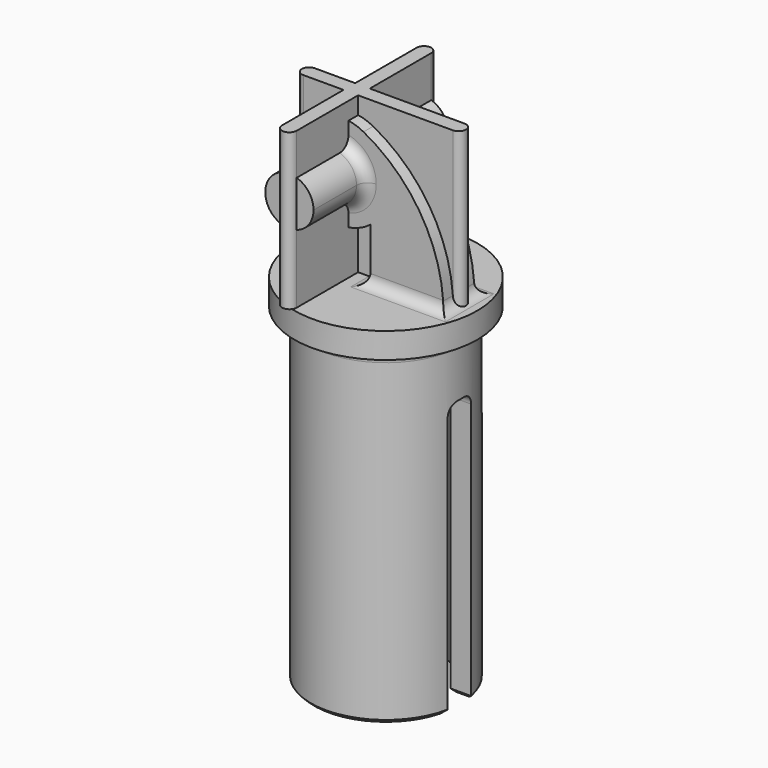
from build123d import *

# Parameters (mm, degrees)
F1_DEPTH  = 2.65
F2_DEPTH  = 11.5
F3_R      = 12.5
F4_DEPTH  = 3.5
F5_R      = 10.25
F5_R_2    = 7.5
F6_DEPTH  = 45
F7_W      = 52.3298196495
F7_H      = 44.3425662816
F8_DEPTH  = 2
F9_R      = 1.5
F13_SIZE  = 0.5
F11_W     = 1
F11_H     = 1
F12_DEPTH = 21.3


with BuildPart() as f1:
    # F0 (on Front) → F1 (new body, symmetric)
    with BuildSketch(Plane.XZ):
        with BuildLine():
            ThreePointArc((2.5, 12.5), (1.8416607228, 9.6495614373), (0, 7.376524617))
            Line((0, 7.376524617), (0, 0))
            Line((0, 0), (10, 0))
            ThreePointArc((10, 0), (7.0548538101, 10.6329122587), (-0.9411764292, 18.2352940956))
            ThreePointArc((-0.9411764292, 18.2352940956), (1.5737040292, 15.8442223901), (2.5, 12.5))
        make_face()
        with BuildLine():
            ThreePointArc((-4, 15.8), (-1.6665476221, 14.8334523779), (-0.7, 12.5))
            Line((-0.7, 12.5), (0, 12.5))
            Line((0, 12.5), (0, 7.376524617))
            ThreePointArc((0, 7.376524617), (1.8416607228, 9.6495614373), (2.5, 12.5))
            ThreePointArc((2.5, 12.5), (1.5737040292, 15.8442223901), (-0.9411764292, 18.2352940956))
            ThreePointArc((-0.9411764292, 18.2352940956), (-2.4235184145, 18.8059262453), (-4, 19))
            Line((-4, 19), (-4, 15.8))
        make_face()
        with BuildLine():
            Line((0, 12.5), (-0.7, 12.5))
            ThreePointArc((-0.7, 12.5), (-1.6665476221, 10.1665476221), (-4, 9.2))
            Line((-4, 9.2), (-4, 6))
            ThreePointArc((-4, 6), (-1.8848865266, 6.3537576525), (0, 7.376524617))
            Line((0, 7.376524617), (0, 12.5))
        make_face()
        with BuildLine():
            ThreePointArc((-4, 9.2), (-7.3, 12.5), (-4, 15.8))
            Line((-4, 15.8), (-4, 19))
            ThreePointArc((-4, 19), (-10.5, 12.5), (-4, 6))
            Line((-4, 6), (-4, 9.2))
        make_face()
    extrude(amount=F1_DEPTH, both=True)

    # F0 (on Front) → F2 (join, symmetric)
    with BuildSketch(Plane.XZ):
        with BuildLine():
            ThreePointArc((-4, 9.2), (-1.6665476221, 10.1665476221), (-0.7, 12.5))
            Line((-0.7, 12.5), (-4, 12.5))
            Line((-4, 12.5), (-4, 9.2))
        make_face()
        with BuildLine():
            Line((-4, 12.5), (-0.7, 12.5))
            ThreePointArc((-0.7, 12.5), (-1.6665476221, 14.8334523779), (-4, 15.8))
            Line((-4, 15.8), (-4, 12.5))
        make_face()
        with BuildLine():
            Line((-4, 12.5), (-4, 15.8))
            ThreePointArc((-4, 15.8), (-7.3, 12.5), (-4, 9.2))
            Line((-4, 9.2), (-4, 12.5))
        make_face()
    extrude(amount=F2_DEPTH, both=True)

    # F3 (on Top) → F4 (join)
    with BuildSketch(Plane.XY):
        Circle(F3_R)
    extrude(amount=-F4_DEPTH)

    # F5 (on face) → F6 (join)
    with BuildSketch(Plane(origin=(0, 0, -3.5), x_dir=(1, 0, 0), z_dir=(0, 0, -1))):
        Circle(F5_R)
        Circle(F5_R_2, mode=Mode.SUBTRACT)
    extrude(amount=F6_DEPTH)

    # F7 (on Front) → F8 (cut, symmetric)
    with BuildSketch(Plane.XZ):
        with Locations((3.1908433884, -33.530684188)):
            Rectangle(F7_W, F7_H)
    extrude(amount=F8_DEPTH, both=True, mode=Mode.SUBTRACT)

    # F9
    f9_edges = [f1.edges().sort_by_distance(p)[0] for p in [
        (5, -2.65, 0),
        (-4, -2.65, 9.2),
        (-4, 2.65, 9.2),
        (0, 0, 0),
        (-10.25, 0, -3.5),
        (5, 2.65, 0),
        (10, 0, 0),
        (-7.5, 0, -3.5),
        (8.6407, 2, -11.359401),
        (-8.6407, 2, -11.359401),
        (8.6407, -2, -11.359401),
        (-8.6407, -2, -11.359401),
    ]]
    fillet(f9_edges, radius=F9_R)

    # F13
    f13_edges = [f1.edges().sort_by_distance(p)[0] for p in [
        (0, 10.25, -48.5),
        (-8.6407, 2, -48.5),
        (0, 7.5, -48.5),
        (8.6407, 2, -48.5),
        (8.6407, -2, -48.5),
        (0, -7.5, -48.5),
        (-8.6407, -2, -48.5),
        (0, -10.25, -48.5),
    ]]
    chamfer(f13_edges, length=F13_SIZE)


with BuildPart() as f12:
    # F11 (on offset) → F12 (new body, through all)
    with BuildSketch(Plane.XY.offset(21.3)):
        with BuildLine():
            Line((9.9526281655, 1), (-3, 1))
            Line((-3, 1), (-3, 0))
            Line((-3, 0), (-3, -1))
            Line((-3, -1), (9.9526281655, -1))
            ThreePointArc((9.9526281655, -1), (10.9526281655, 0), (9.9526281655, 1))
        make_face()
        with BuildLine():
            Line((-5, 0), (-5, 1))
            Line((-5, 1), (-10.5, 1))
            ThreePointArc((-10.5, 1), (-11.5, 0), (-10.5, -1))
            Line((-10.5, -1), (-5, -1))
            Line((-5, -1), (-5, 0))
        make_face()
        with Locations((-4.5, -0.5)):
            Rectangle(F11_W, F11_H)
        with Locations((-3.5, -0.5)):
            Rectangle(F11_W, F11_H)
        with Locations((-3.5, 0.5)):
            Rectangle(F11_W, F11_H)
        with Locations((-4.5, 0.5)):
            Rectangle(F11_W, F11_H)
        with BuildLine():
            Line((-5, 1), (-4, 1))
            Line((-4, 1), (-3, 1))
            Line((-3, 1), (-3, 11.5))
            ThreePointArc((-3, 11.5), (-4, 12.5), (-5, 11.5))
            Line((-5, 11.5), (-5, 1))
        make_face()
        with BuildLine():
            Line((-3, -1), (-4, -1))
            Line((-4, -1), (-5, -1))
            Line((-5, -1), (-5, -11.5))
            ThreePointArc((-5, -11.5), (-4, -12.5), (-3, -11.5))
            Line((-3, -11.5), (-3, -1))
        make_face()
    extrude(amount=-F12_DEPTH)


solid = Compound([f1.part, f12.part])
